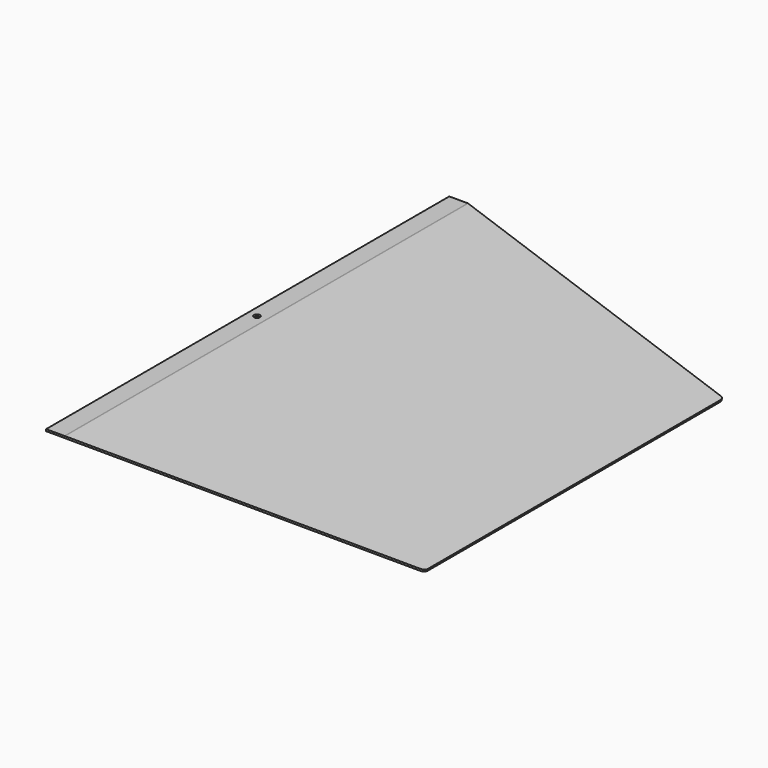
from build123d import *

# Parameters (mm, degrees)
F1_DEPTH = 270
F3_DEPTH = 55
F4_R     = 4
F5_R     = 2
F6_R     = 5
F7_R     = 3.25
F8_DEPTH = 25


with BuildPart() as f1:
    # F0 (on Front) → F1 (new body, symmetric)
    with BuildSketch(Plane.XZ):
        Polygon((20, 0), (0, 0), (0, -2), (19.855245, -2), (349.711998, -50), (350, -48.020845), align=None)
    extrude(amount=F1_DEPTH, both=True)

    # F2 (on face) → F3 (cut)
    with BuildSketch(Plane.XY):
        Polygon((350, -200), (20, -270), (20, -308.046314), (437.196553, -308.046314), (437.196553, -200), align=None)
        Polygon((20, 308.046314), (20, 270), (350, 200), (437.196553, 200), (437.196553, 308.046314), align=None)
    extrude(amount=-F3_DEPTH, mode=Mode.SUBTRACT)

    # F4
    f4_edges = [f1.edges().sort_by_distance(p)[0] for p in [
        (20, 0, 0),
    ]]
    fillet(f4_edges, radius=F4_R)

    # F5
    f5_edges = [f1.edges().sort_by_distance(p)[0] for p in [
        (19.855245, 0, -2),
    ]]
    fillet(f5_edges, radius=F5_R)

    # F6
    f6_edges = [f1.edges().sort_by_distance(p)[0] for p in [
        (349.855999, -200.030546, -49.010422),
        (349.855999, 200.030546, -49.010422),
    ]]
    fillet(f6_edges, radius=F6_R)

    # F7 (on face) → F8 (cut)
    with BuildSketch(Plane.XY):
        with Locations((10, 0)):
            Circle(F7_R)
    extrude(amount=-F8_DEPTH, mode=Mode.SUBTRACT)


solid = f1.part
